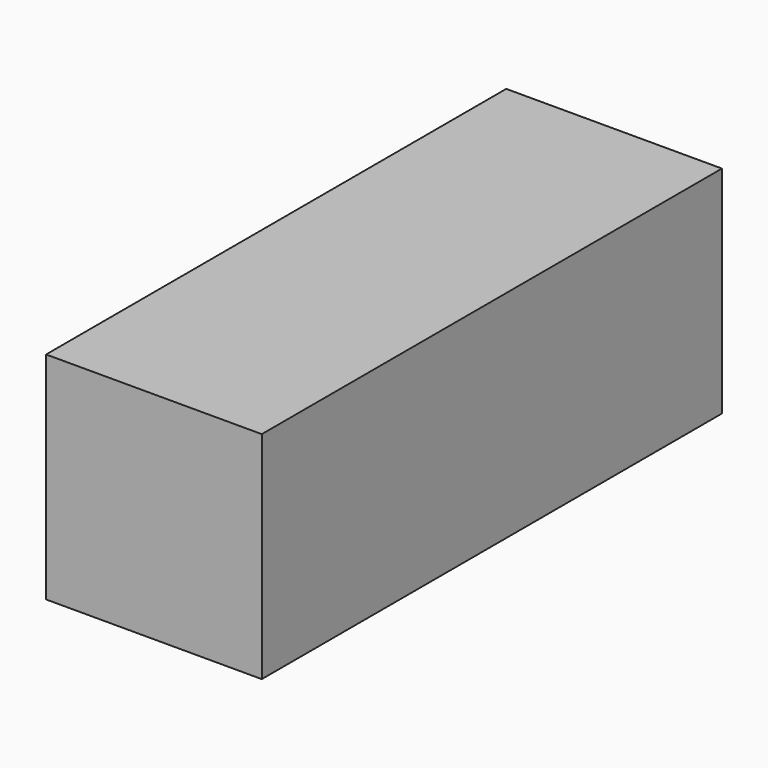
from build123d import *

# Parameters (mm, degrees)
F1_DEPTH = 25.4


with BuildPart() as f1:
    # F0 (on Front) → F1 (new body)
    with BuildSketch(Plane.XZ):
        with BuildLine():
            Line((0, 4.7625), (-4.7625, 4.7625))
            Line((-4.7625, 4.7625), (-4.7625, 0))
            ThreePointArc((-4.7625, 0), (-3.3675960454, 3.3675960454), (0, 4.7625))
        make_face()
        with BuildLine():
            Line((4.7625, 4.7625), (0, 4.7625))
            ThreePointArc((0, 4.7625), (3.3675960454, 3.3675960454), (4.7625, 0))
            Line((4.7625, 0), (4.7625, 4.7625))
        make_face()
        with BuildLine():
            ThreePointArc((4.7625, 0), (3.3675960454, 3.3675960454), (0, 4.7625))
            ThreePointArc((0, 4.7625), (-3.3675960454, 3.3675960454), (-4.7625, 0))
            ThreePointArc((-4.7625, 0), (-3.3675960454, -3.3675960454), (0, -4.7625))
            ThreePointArc((0, -4.7625), (3.3675960454, -3.3675960454), (4.7625, 0))
        make_face()
        with BuildLine():
            ThreePointArc((0, -4.7625), (-3.3675960454, -3.3675960454), (-4.7625, 0))
            Line((-4.7625, 0), (-4.7625, -4.7625))
            Line((-4.7625, -4.7625), (0, -4.7625))
        make_face()
        with BuildLine():
            Line((4.7625, -4.7625), (4.7625, 0))
            ThreePointArc((4.7625, 0), (3.3675960454, -3.3675960454), (0, -4.7625))
            Line((0, -4.7625), (4.7625, -4.7625))
        make_face()
    extrude(amount=F1_DEPTH)


solid = f1.part
